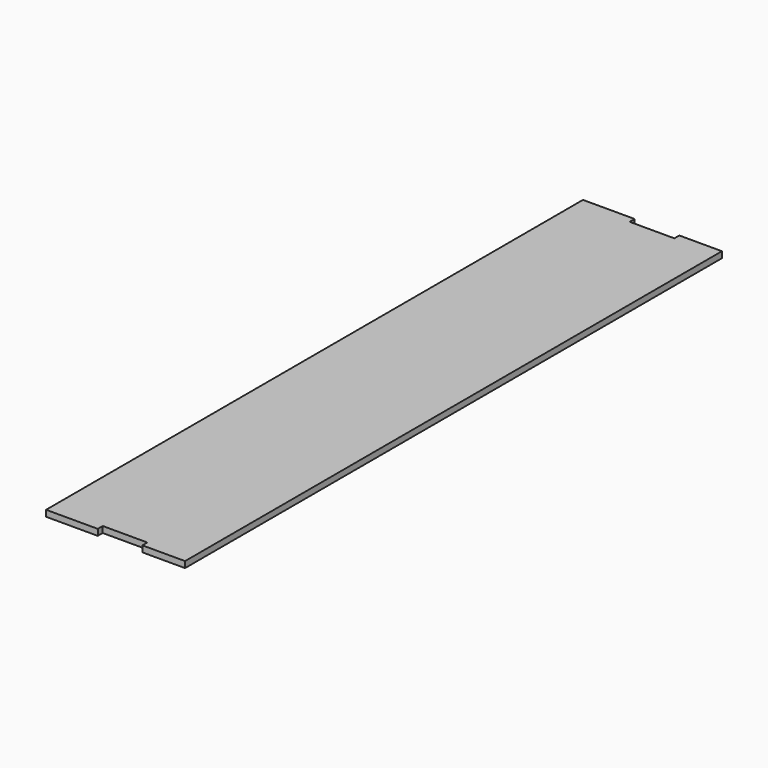
from build123d import *

# Parameters (mm, degrees)
F1_DEPTH = 4.45


with BuildPart() as f1:
    # F0 (on Top) → F1 (new body)
    with BuildSketch(Plane.XY):
        Polygon((12.263674, 430.708341), (12.263674, 426.258341), (-19.848256, 426.258341), (-19.848256, 430.708341), (-56.068197, 430.708341), (-57.002053, 430.708341), (-57.002053, 426.258341), (-57.002053, -47.241659), (-57.002053, -51.691659), (-19.848256, -51.691659), (-19.848256, -47.241659), (12.263674, -47.241659), (12.263674, -51.691659), (42.882712, -51.691659), (42.882712, -47.241659), (42.882712, 426.258341), (42.882712, 430.708341), align=None)
    extrude(amount=F1_DEPTH)


solid = f1.part
